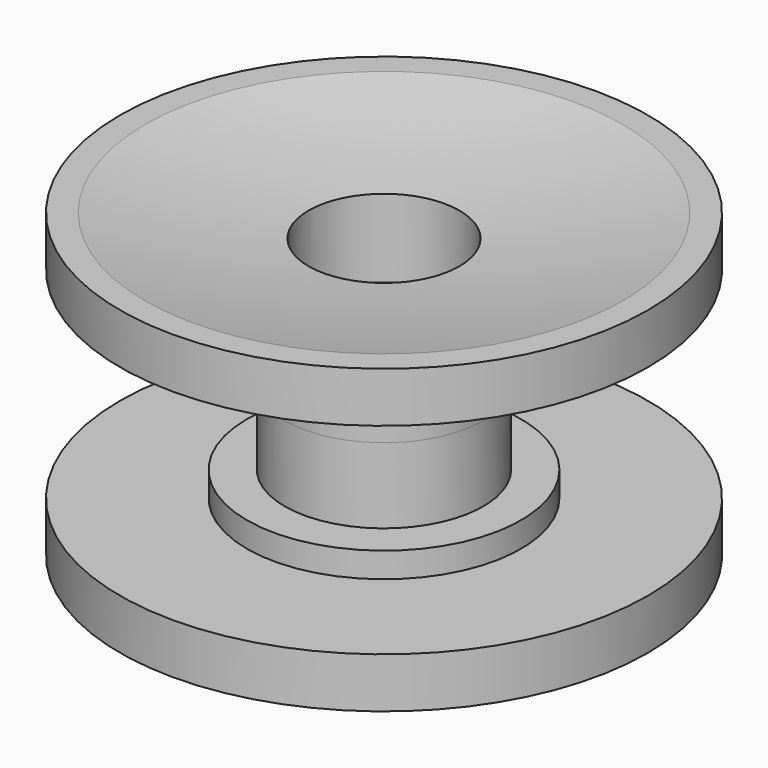
from build123d import *

# Parameters (mm, degrees)
F0_W     = 1.5
F0_H     = 1
F0_W_2   = 2.325
F0_H_2   = 3
F3_R     = 3
F4_DEPTH = 4
F6_DEPTH = 4


with BuildPart() as f1:
    # F0 (on Front) → F1 (revolve)
    with BuildSketch(Plane.XZ):
        with BuildLine():
            Line((-3.95, 19), (0, 19))
            Line((0, 19), (0, 20))
            ThreePointArc((0, 20), (-4.7762432936, 20.2506887105), (-9.5, 21))
            Line((-9.5, 21), (-10.5, 21))
            Line((-10.5, 21), (-10.5, 19))
            Line((-10.5, 19), (-5.45, 19))
            Line((-5.45, 19), (-3.95, 19))
        make_face()
        with Locations((-4.7, 18.5)):
            Rectangle(F0_W, F0_H)
        Polygon((-1, 18), (0, 18), (0, 19), (-3.95, 19), (-3.95, 18), (-1.625, 18), align=None)
        with Locations((-2.7875, 16.5)):
            Rectangle(F0_W_2, F0_H_2)
    revolve(axis=Axis((0, 0, 17), (0, 0, 1)))


with BuildPart() as f2_1:
    # F2: instance of F1
    add(f1.part.mirror(Plane(origin=(0, 0, 15), x_dir=(1, 0, 0), z_dir=(0, 0, -1))))

    # F5 (on face) → F6 (cut)
    with BuildSketch(Plane(origin=(0, 0, 9), x_dir=(1, 0, 0), z_dir=(0, 0, -1))):
        Polygon((1.6454482672, 2.85), (-1.6454482672, 2.85), (-3.2908965344, 0), (-1.6454482672, -2.85), (1.6454482672, -2.85), (3.2908965344, 0), align=None)
    extrude(amount=-F6_DEPTH, mode=Mode.SUBTRACT)


with BuildPart() as f1_1:
    add(f1.part)

    # F3 (on face) → F4 (cut)
    with BuildSketch(Plane.XY.offset(21)):
        Circle(F3_R)
    extrude(amount=-F4_DEPTH, mode=Mode.SUBTRACT)


solid = Compound([f2_1.part, f1_1.part])
